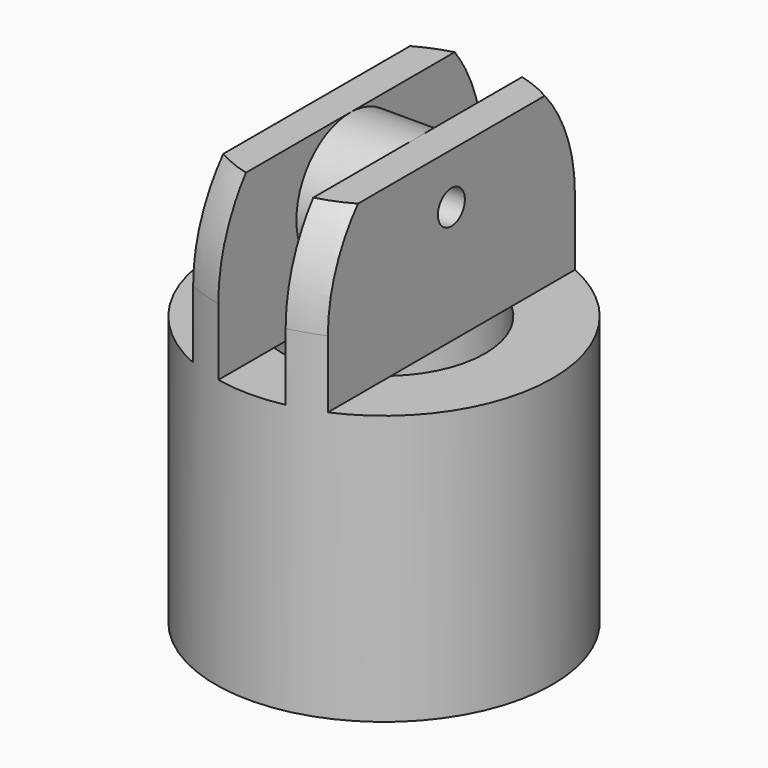
from build123d import *

# Parameters (mm, degrees)
CYLINDER016_R     = 0.5
CYLINDER016_DEPTH = 10
CYLINDER014_R     = 2
CYLINDER014_DEPTH = 4
CYLINDER015_R     = 3
CYLINDER015_DEPTH = 10
BOX003_W          = 10
BOX003_H          = 10
BOX003_DEPTH      = 10
BOX004_W          = 2
BOX004_H          = 10
BOX004_DEPTH      = 10
BOX002_W          = 10
BOX002_H          = 10
BOX002_DEPTH      = 10
CYLINDER013_R     = 5
CYLINDER013_DEPTH = 10
CYLINDER012_R     = 5
CYLINDER012_DEPTH = 10


with BuildPart() as cylinder016:
    # Cylinder016 → Cylinder016 (new body)
    with BuildSketch(Plane(origin=(-5, 0, -7), x_dir=(0, 0, -1), z_dir=(1, 0, 0))):
        Circle(CYLINDER016_R)
    extrude(amount=CYLINDER016_DEPTH)


with BuildPart() as cylinder014:
    # Cylinder014 → Cylinder014 (new body)
    with BuildSketch(Plane(origin=(-2, -50, 1), x_dir=(0, 0, -1), z_dir=(1, 0, 0))):
        Circle(CYLINDER014_R)
    extrude(amount=CYLINDER014_DEPTH)


with BuildPart() as cylinder015:
    # Cylinder015 → Cylinder015 (new body)
    with BuildSketch(Plane(origin=(0, -50, -12), x_dir=(1, 0, 0), z_dir=(0, 0, 1))):
        Circle(CYLINDER015_R)
    extrude(amount=CYLINDER015_DEPTH)


with BuildPart() as cube003:
    # Box003 → Box003 (new body)
    with BuildSketch(Plane(origin=(-12, -55, -2), x_dir=(1, 0, 0), z_dir=(0, 0, 1))):
        with Locations((5, 5)):
            Rectangle(BOX003_W, BOX003_H)
    extrude(amount=BOX003_DEPTH)


with BuildPart() as cube004:
    # Box004 → Box004 (new body)
    with BuildSketch(Plane(origin=(-1, -55, -2), x_dir=(1, 0, 0), z_dir=(0, 0, 1))):
        with Locations((1, 5)):
            Rectangle(BOX004_W, BOX004_H)
    extrude(amount=BOX004_DEPTH)


with BuildPart() as cube002:
    # Box002 → Box002 (new body)
    with BuildSketch(Plane(origin=(2, -55, -2), x_dir=(1, 0, 0), z_dir=(0, 0, 1))):
        with Locations((5, 5)):
            Rectangle(BOX002_W, BOX002_H)
    extrude(amount=BOX002_DEPTH)


with BuildPart() as cylinder013:
    # Cylinder013 → Cylinder013 (new body)
    with BuildSketch(Plane(origin=(0, -50, -10), x_dir=(1, 0, 0), z_dir=(0, 0, 1))):
        Circle(CYLINDER013_R)
    extrude(amount=CYLINDER013_DEPTH)


with BuildPart() as sphere004:
    # Sphere004 → Sphere004 (revolve)
    with BuildSketch(Plane.XZ.offset(50)):
        with BuildLine():
            ThreePointArc((5, 0), (3.535534, 3.535534), (0, 5))
            Line((0, 5), (0, 0))
            Line((0, 0), (5, 0))
        make_face()
    revolve(axis=Axis((0, -50, 0), (0, 0, 1)))


with BuildPart() as cut013:
    # Cylinder012 → Cylinder012 (new body)
    with BuildSketch(Plane(origin=(0, -50, -7), x_dir=(1, 0, 0), z_dir=(0, 0, 1))):
        Circle(CYLINDER012_R)
    extrude(amount=CYLINDER012_DEPTH)

    # Common002: intersect Sphere004
    add(sphere004.part, mode=Mode.INTERSECT)

    # Fusion004: union Cylinder013
    add(cylinder013.part)

    # Cut009: cut Cube002
    add(cube002.part, mode=Mode.SUBTRACT)

    # Cut010: cut Cube004
    add(cube004.part, mode=Mode.SUBTRACT)

    # Cut011: cut Cube003
    add(cube003.part, mode=Mode.SUBTRACT)

    # Cut012: cut Cylinder015
    add(cylinder015.part, mode=Mode.SUBTRACT)

    # Fusion005: union Cylinder014
    add(cylinder014.part)


with BuildPart() as cut013_1:
    # Fusion005001 placement: moved
    add(cut013.part.moved(Location((0, 50, -8.5))))

    # Cut013: cut Cylinder016
    add(cylinder016.part, mode=Mode.SUBTRACT)


with BuildPart() as cut013_2:
    # Cut013 placement: moved
    add(cut013_1.part.moved(Location((0, 0, -18.5))))


solid = cut013_2.part
